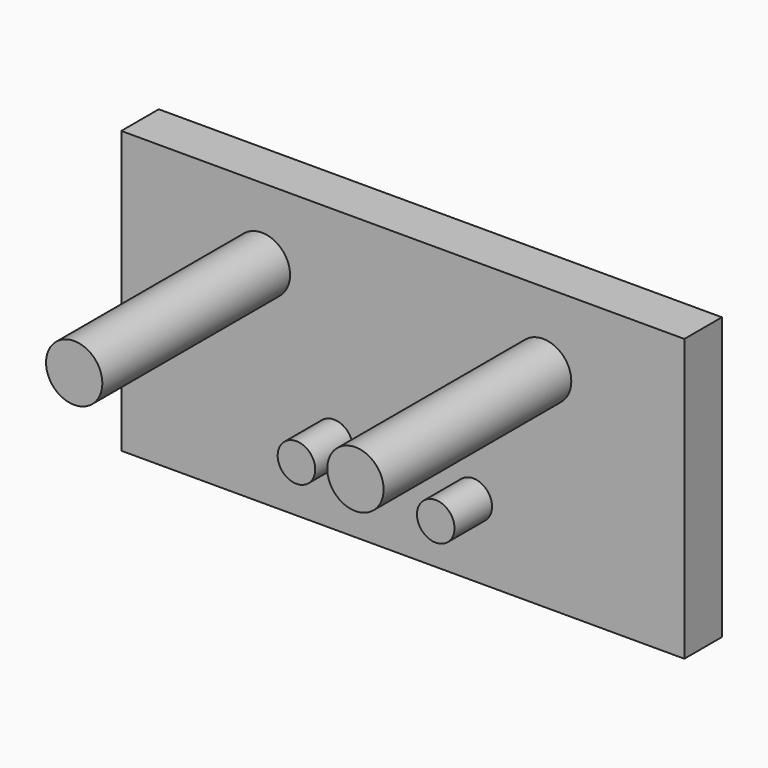
from build123d import *

# Parameters (mm, degrees)
F0_R     = 15
F1_DEPTH = 150
F0_R_2   = 10
F2_DEPTH = 50
F0_W     = 300
F0_H     = 150
F3_DEPTH = 25


with BuildPart() as f1:
    # F0 (on Front) → F1 (new body)
    with BuildSketch(Plane.XZ):
        with Locations((74.751347, 35.594754)):
            Circle(F0_R)
        with Locations((-75.080156, 36.680624)):
            Circle(F0_R)
    extrude(amount=F1_DEPTH)


with BuildPart() as f2:
    # F0 (on Front) → F2 (new body)
    with BuildSketch(Plane.XZ):
        with Locations((37.539899, -36.953241)):
            Circle(F0_R_2)
        with Locations((-36.673635, -33.49714)):
            Circle(F0_R_2)
    extrude(amount=F2_DEPTH)


with BuildPart() as f3:
    # F0 (on Front) → F3 (new body)
    with BuildSketch(Plane.XZ):
        Rectangle(F0_W, F0_H)
        with Locations((-36.673635, -33.49714)):
            Circle(F0_R_2, mode=Mode.SUBTRACT)
        with Locations((37.539899, -36.953241)):
            Circle(F0_R_2, mode=Mode.SUBTRACT)
        with Locations((-75.080156, 36.680624)):
            Circle(F0_R, mode=Mode.SUBTRACT)
        with Locations((74.751347, 35.594754)):
            Circle(F0_R, mode=Mode.SUBTRACT)
    extrude(amount=F3_DEPTH)


solid = Compound([f1.part, f2.part, f3.part])
